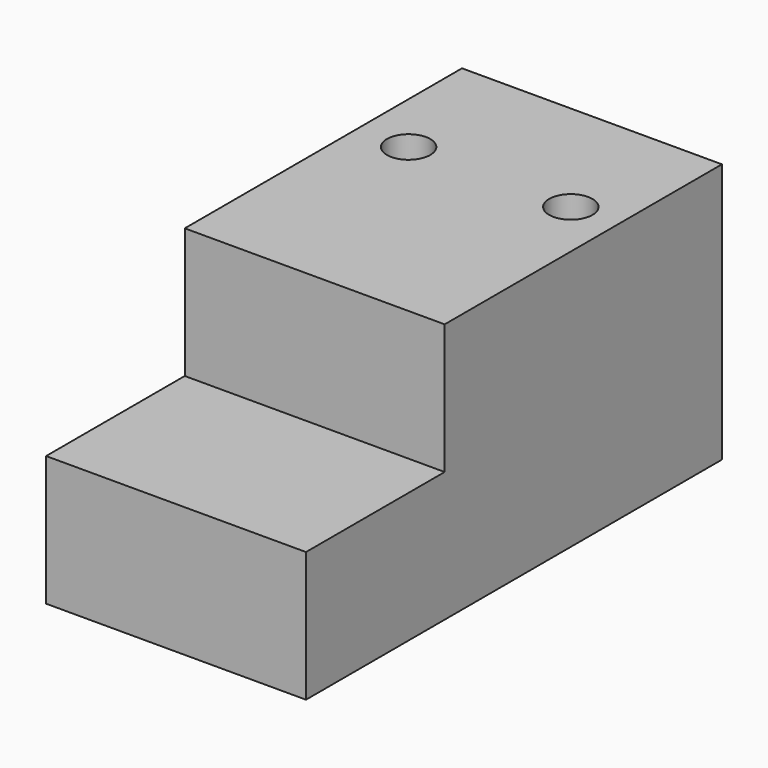
from build123d import *

# Parameters (mm, degrees)
F0_W     = 76.189154759
F0_H     = 76.2136504054
F1_DEPTH = 152.4
F2_W     = 50.8111025929
F2_H     = 38.1068252027
F3_DEPTH = 76.2
F4_R     = 6.3508418906
F4_R_2   = 6.3510810939
F5_DEPTH = 101.6


with BuildPart() as f1:
    # F0 (on Front) → F1 (new body)
    with BuildSketch(Plane.XZ):
        with Locations((-7.1593066677, 1.5659481287)):
            Rectangle(F0_W, F0_H)
    extrude(amount=F1_DEPTH)

    # F2 (on face) → F3 (cut)
    with BuildSketch(Plane.YZ.offset(30.9352707118)):
        with Locations((-126.9944487035, 20.6193607301)):
            Rectangle(F2_W, F2_H)
    extrude(amount=-F3_DEPTH, mode=Mode.SUBTRACT)

    # F4 (on face) → F5 (cut)
    with BuildSketch(Plane.XY.offset(39.6727733314)):
        with Locations((-30.4293371737, -38.1011925638)):
            Circle(F4_R)
        with Locations((17.1245448291, -38.1011925638)):
            Circle(F4_R_2)
    extrude(amount=-F5_DEPTH, mode=Mode.SUBTRACT)


solid = f1.part
